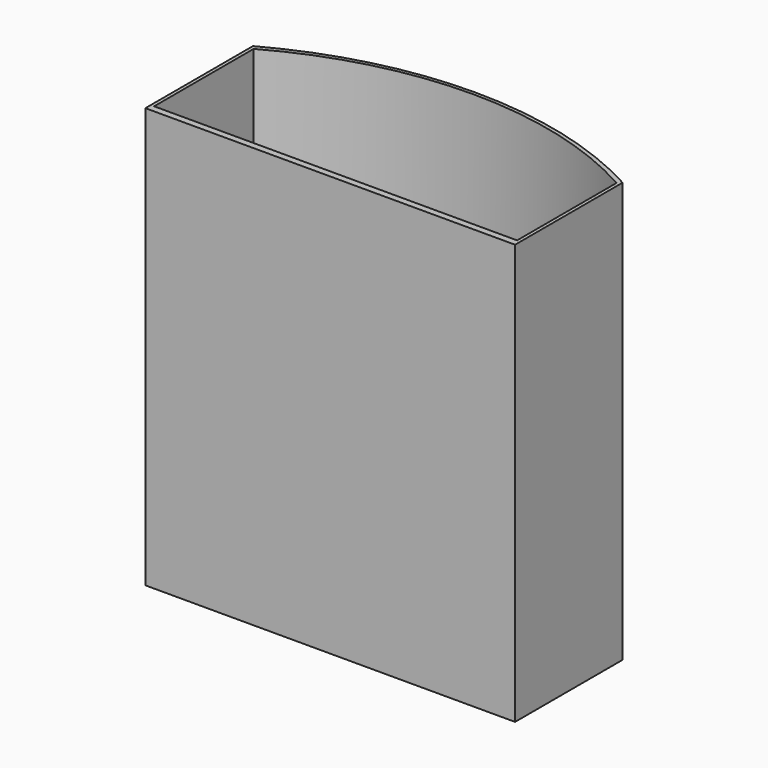
from build123d import *

# Parameters (mm, degrees)
PAD_DEPTH = 250


with BuildPart() as part:
    # Sketch → Pad (new body)
    with BuildSketch(Plane.XY):
        with BuildLine():
            Line((0, 0), (220, 0))
            Line((220, 0), (220, 80))
            ThreePointArc((220, 80), (110, 108.140114), (0, 80))
            Line((0, 0), (0, 80))
        make_face()
        with BuildLine():
            Line((2, 4), (218, 4))
            Line((218, 4), (218, 78))
            ThreePointArc((218, 78), (110, 106.140114), (2, 78))
            Line((2, 4), (2, 78))
        make_face(mode=Mode.SUBTRACT)
    extrude(amount=PAD_DEPTH)


solid = part.part
